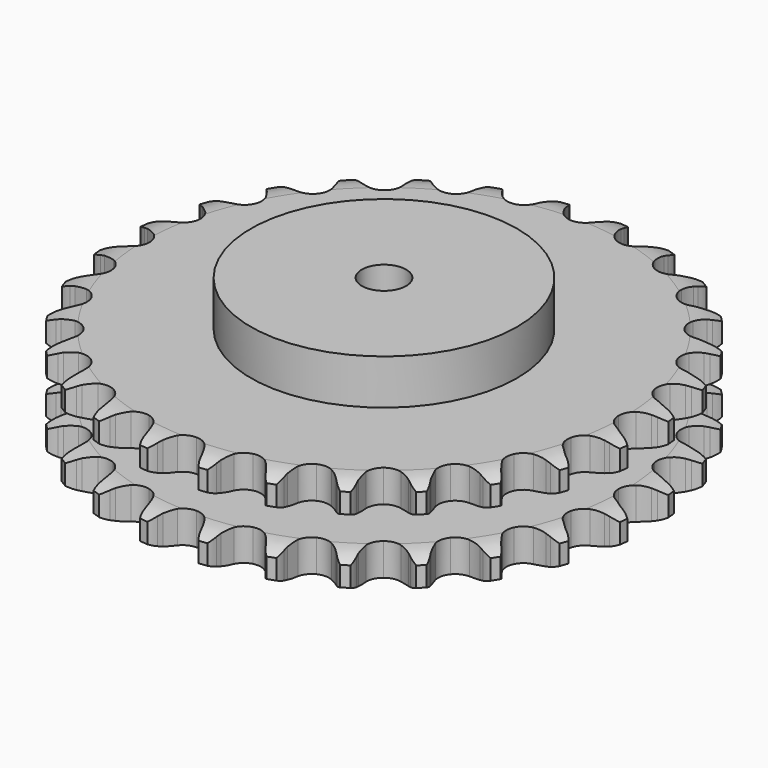
from build123d import *

# Parameters (mm, degrees)
PAD_DEPTH         = 54.6
SKETCH001_R       = 75
PAD001_DEPTH      = 80
SKETCH002_R       = 12.5
POCKET_DEPTH      = 0.001
POCKET_DEPTH_BACK = 80.001


with BuildPart() as part:
    # Sprocket → Pad (new body)
    with BuildSketch(Plane.XY):
        with BuildLine():
            ThreePointArc((-17.035209, 151.191666), (-14.028847, 148.159083), (-11.957801, 144.42471))
            Line((-11.957801, 144.42471), (-11.029574, 142.024501))
            ThreePointArc((-11.029574, 142.024501), (-9.556528, 138.885997), (-7.661021, 135.983045))
            ThreePointArc((-7.661021, 135.983045), (-4.277559, 133.179735), (0, 132.175318))
            ThreePointArc((0, 132.175318), (4.277559, 133.179735), (7.661021, 135.983045))
            ThreePointArc((7.661021, 135.983045), (9.556528, 138.885997), (11.029574, 142.024501))
            Line((11.029574, 142.024501), (11.957801, 144.42471))
            ThreePointArc((11.957801, 144.42471), (14.028847, 148.159083), (17.035209, 151.191666))
            ThreePointArc((17.035209, 151.191666), (19.291383, 147.566138), (20.479527, 143.464542))
            Line((20.479527, 143.464542), (20.850385, 140.917961))
            ThreePointArc((20.850385, 140.917961), (21.588116, 137.530362), (22.790131, 134.278403))
            ThreePointArc((22.790131, 134.278403), (25.464968, 130.792488), (29.411775, 128.861407))
            ThreePointArc((29.411775, 128.861407), (33.80559, 128.888795), (37.728018, 130.868928))
            Line((37.728018, 130.868928), (42.356464, 136.009339))
            ThreePointArc((42.356464, 136.009339), (43.048354, 137.09472), (43.795515, 138.14282))
            ThreePointArc((43.795515, 138.14282), (46.645612, 141.322713), (50.251412, 143.610284))
            ThreePointArc((50.251412, 143.610284), (51.644262, 139.57361), (51.889927, 135.310463))
            Line((51.889927, 135.310463), (51.684819, 132.745207))
            ThreePointArc((51.684819, 132.745207), (51.650242, 129.278381), (52.09849, 125.840482))
            ThreePointArc((52.09849, 125.840482), (53.930574, 121.846759), (57.348721, 119.085846))
            ThreePointArc((57.348721, 119.085846), (61.638469, 118.134832), (65.903174, 119.192497))
            Line((65.903174, 119.192497), (71.559424, 123.174101))
            ThreePointArc((71.559424, 123.174101), (72.475487, 124.078309), (73.43714, 124.933872))
            ThreePointArc((73.43714, 124.933872), (76.923371, 127.399833), (80.947799, 128.827684))
            ThreePointArc((80.947799, 128.827684), (81.407483, 124.582279), (80.698348, 120.371352))
            Line((80.698348, 120.371352), (79.92756, 117.916053))
            ThreePointArc((79.92756, 117.916053), (79.122408, 114.543842), (78.794414, 111.092394))
            ThreePointArc((78.794414, 111.092394), (79.691877, 106.791124), (82.409963, 103.338825))
            ThreePointArc((82.409963, 103.338825), (86.380537, 101.457096), (90.773669, 101.539257))
            Line((90.773669, 101.539257), (97.174096, 104.162399))
            ThreePointArc((97.174096, 104.162399), (98.268397, 104.840093), (99.396319, 105.460218))
            ThreePointArc((99.396319, 105.460218), (103.343872, 107.088592), (107.585125, 107.585125))
            ThreePointArc((107.585125, 107.585125), (107.088592, 103.343872), (105.460218, 99.396319))
            Line((105.460218, 99.396319), (104.162399, 97.174096))
            ThreePointArc((104.162399, 97.174096), (102.627047, 94.065597), (101.539257, 90.773669))
            ThreePointArc((101.539257, 90.773669), (101.457096, 86.380537), (103.338825, 82.409963))
            ThreePointArc((103.338825, 82.409963), (106.791124, 79.691877), (111.092394, 78.794414))
            Line((111.092394, 78.794414), (117.916053, 79.92756))
            ThreePointArc((117.916053, 79.92756), (119.133718, 80.344758), (120.371352, 80.698348))
            ThreePointArc((120.371352, 80.698348), (124.582279, 81.407483), (128.827684, 80.947799))
            ThreePointArc((128.827684, 80.947799), (127.399833, 76.923371), (124.933872, 73.43714))
            Line((124.933872, 73.43714), (123.174101, 71.559424))
            ThreePointArc((123.174101, 71.559424), (120.985537, 68.870509), (119.192497, 65.903174))
            ThreePointArc((119.192497, 65.903174), (118.134832, 61.638469), (119.085846, 57.348721))
            ThreePointArc((119.085846, 57.348721), (121.846759, 53.930574), (125.840482, 52.09849))
            Line((125.840482, 52.09849), (132.745207, 51.684819))
            ThreePointArc((132.745207, 51.684819), (134.025178, 51.820601), (135.310463, 51.889927))
            ThreePointArc((135.310463, 51.889927), (139.57361, 51.644262), (143.610284, 50.251412))
            ThreePointArc((143.610284, 50.251412), (141.322713, 46.645612), (138.14282, 43.795515))
            Line((138.14282, 43.795515), (136.009339, 42.356464))
            ThreePointArc((136.009339, 42.356464), (133.277307, 40.221967), (130.868928, 37.728018))
            ThreePointArc((130.868928, 37.728018), (128.888795, 33.80559), (128.861407, 29.411775))
            ThreePointArc((128.861407, 29.411775), (130.792488, 25.464968), (134.278403, 22.790131))
            Line((134.278403, 22.790131), (140.917961, 20.850385))
            ThreePointArc((140.917961, 20.850385), (142.196055, 20.697943), (143.464542, 20.479527))
            ThreePointArc((143.464542, 20.479527), (147.566138, 19.291383), (151.191666, 17.035209))
            ThreePointArc((151.191666, 17.035209), (148.159083, 14.028847), (144.42471, 11.957801))
            Line((144.42471, 11.957801), (142.024501, 11.029574))
            ThreePointArc((142.024501, 11.029574), (138.885997, 9.556528), (135.983045, 7.661021))
            ThreePointArc((135.983045, 7.661021), (133.179735, 4.277559), (132.175318, 0))
            ThreePointArc((132.175318, 0), (133.179735, -4.277559), (135.983045, -7.661021))
            Line((135.983045, -7.661021), (142.024501, -11.029574))
            ThreePointArc((142.024501, -11.029574), (143.236629, -11.462597), (144.42471, -11.957801))
            ThreePointArc((144.42471, -11.957801), (148.159083, -14.028847), (151.191666, -17.035209))
            ThreePointArc((151.191666, -17.035209), (147.566138, -19.291383), (143.464542, -20.479527))
            Line((143.464542, -20.479527), (140.917961, -20.850385))
            ThreePointArc((140.917961, -20.850385), (137.530362, -21.588116), (134.278403, -22.790131))
            ThreePointArc((134.278403, -22.790131), (130.792488, -25.464968), (128.861407, -29.411775))
            ThreePointArc((128.861407, -29.411775), (128.888795, -33.80559), (130.868928, -37.728018))
            Line((130.868928, -37.728018), (136.009339, -42.356464))
            ThreePointArc((136.009339, -42.356464), (137.09472, -43.048354), (138.14282, -43.795515))
            ThreePointArc((138.14282, -43.795515), (141.322713, -46.645612), (143.610284, -50.251412))
            ThreePointArc((143.610284, -50.251412), (139.57361, -51.644262), (135.310463, -51.889927))
            Line((135.310463, -51.889927), (132.745207, -51.684819))
            ThreePointArc((132.745207, -51.684819), (129.278381, -51.650242), (125.840482, -52.09849))
            ThreePointArc((125.840482, -52.09849), (121.846759, -53.930574), (119.085846, -57.348721))
            ThreePointArc((119.085846, -57.348721), (118.134832, -61.638469), (119.192497, -65.903174))
            Line((119.192497, -65.903174), (123.174101, -71.559424))
            ThreePointArc((123.174101, -71.559424), (124.078309, -72.475487), (124.933872, -73.43714))
            ThreePointArc((124.933872, -73.43714), (127.399833, -76.923371), (128.827684, -80.947799))
            ThreePointArc((128.827684, -80.947799), (124.582279, -81.407483), (120.371352, -80.698348))
            Line((120.371352, -80.698348), (117.916053, -79.92756))
            ThreePointArc((117.916053, -79.92756), (114.543842, -79.122408), (111.092394, -78.794414))
            ThreePointArc((111.092394, -78.794414), (106.791124, -79.691877), (103.338825, -82.409963))
            ThreePointArc((103.338825, -82.409963), (101.457096, -86.380537), (101.539257, -90.773669))
            Line((101.539257, -90.773669), (104.162399, -97.174096))
            ThreePointArc((104.162399, -97.174096), (104.840093, -98.268397), (105.460218, -99.396319))
            ThreePointArc((105.460218, -99.396319), (107.088592, -103.343872), (107.585125, -107.585125))
            ThreePointArc((107.585125, -107.585125), (103.343872, -107.088592), (99.396319, -105.460218))
            Line((99.396319, -105.460218), (97.174096, -104.162399))
            ThreePointArc((97.174096, -104.162399), (94.065597, -102.627047), (90.773669, -101.539257))
            ThreePointArc((90.773669, -101.539257), (86.380537, -101.457096), (82.409963, -103.338825))
            ThreePointArc((82.409963, -103.338825), (79.691877, -106.791124), (78.794414, -111.092394))
            Line((78.794414, -111.092394), (79.92756, -117.916053))
            ThreePointArc((79.92756, -117.916053), (80.344758, -119.133718), (80.698348, -120.371352))
            ThreePointArc((80.698348, -120.371352), (81.407483, -124.582279), (80.947799, -128.827684))
            ThreePointArc((80.947799, -128.827684), (76.923371, -127.399833), (73.43714, -124.933872))
            Line((73.43714, -124.933872), (71.559424, -123.174101))
            ThreePointArc((71.559424, -123.174101), (68.870509, -120.985537), (65.903174, -119.192497))
            ThreePointArc((65.903174, -119.192497), (61.638469, -118.134832), (57.348721, -119.085846))
            ThreePointArc((57.348721, -119.085846), (53.930574, -121.846759), (52.09849, -125.840482))
            Line((52.09849, -125.840482), (51.684819, -132.745207))
            ThreePointArc((51.684819, -132.745207), (51.820601, -134.025178), (51.889927, -135.310463))
            ThreePointArc((51.889927, -135.310463), (51.644262, -139.57361), (50.251412, -143.610284))
            ThreePointArc((50.251412, -143.610284), (46.645612, -141.322713), (43.795515, -138.14282))
            Line((43.795515, -138.14282), (42.356464, -136.009339))
            ThreePointArc((42.356464, -136.009339), (40.221967, -133.277307), (37.728018, -130.868928))
            ThreePointArc((37.728018, -130.868928), (33.80559, -128.888795), (29.411775, -128.861407))
            ThreePointArc((29.411775, -128.861407), (25.464968, -130.792488), (22.790131, -134.278403))
            Line((22.790131, -134.278403), (20.850385, -140.917961))
            ThreePointArc((20.850385, -140.917961), (20.697943, -142.196055), (20.479527, -143.464542))
            ThreePointArc((20.479527, -143.464542), (19.291383, -147.566138), (17.035209, -151.191666))
            ThreePointArc((17.035209, -151.191666), (14.028847, -148.159083), (11.957801, -144.42471))
            Line((11.957801, -144.42471), (11.029574, -142.024501))
            ThreePointArc((11.029574, -142.024501), (9.556528, -138.885997), (7.661021, -135.983045))
            ThreePointArc((7.661021, -135.983045), (4.277559, -133.179735), (0, -132.175318))
            ThreePointArc((0, -132.175318), (-4.277559, -133.179735), (-7.661021, -135.983045))
            Line((-7.661021, -135.983045), (-11.029574, -142.024501))
            ThreePointArc((-11.029574, -142.024501), (-11.462597, -143.236629), (-11.957801, -144.42471))
            ThreePointArc((-11.957801, -144.42471), (-14.028847, -148.159083), (-17.035209, -151.191666))
            ThreePointArc((-17.035209, -151.191666), (-19.291383, -147.566138), (-20.479527, -143.464542))
            Line((-20.479527, -143.464542), (-20.850385, -140.917961))
            ThreePointArc((-20.850385, -140.917961), (-21.588116, -137.530362), (-22.790131, -134.278403))
            ThreePointArc((-22.790131, -134.278403), (-25.464968, -130.792488), (-29.411775, -128.861407))
            ThreePointArc((-29.411775, -128.861407), (-33.80559, -128.888795), (-37.728018, -130.868928))
            Line((-37.728018, -130.868928), (-42.356464, -136.009339))
            ThreePointArc((-42.356464, -136.009339), (-43.048354, -137.09472), (-43.795515, -138.14282))
            ThreePointArc((-43.795515, -138.14282), (-46.645612, -141.322713), (-50.251412, -143.610284))
            ThreePointArc((-50.251412, -143.610284), (-51.644262, -139.57361), (-51.889927, -135.310463))
            Line((-51.889927, -135.310463), (-51.684819, -132.745207))
            ThreePointArc((-51.684819, -132.745207), (-51.650242, -129.278381), (-52.09849, -125.840482))
            ThreePointArc((-52.09849, -125.840482), (-53.930574, -121.846759), (-57.348721, -119.085846))
            ThreePointArc((-57.348721, -119.085846), (-61.638469, -118.134832), (-65.903174, -119.192497))
            Line((-65.903174, -119.192497), (-71.559424, -123.174101))
            ThreePointArc((-71.559424, -123.174101), (-72.475487, -124.078309), (-73.43714, -124.933872))
            ThreePointArc((-73.43714, -124.933872), (-76.923371, -127.399833), (-80.947799, -128.827684))
            ThreePointArc((-80.947799, -128.827684), (-81.407483, -124.582279), (-80.698348, -120.371352))
            Line((-80.698348, -120.371352), (-79.92756, -117.916053))
            ThreePointArc((-79.92756, -117.916053), (-79.122408, -114.543842), (-78.794414, -111.092394))
            ThreePointArc((-78.794414, -111.092394), (-79.691877, -106.791124), (-82.409963, -103.338825))
            ThreePointArc((-82.409963, -103.338825), (-86.380537, -101.457096), (-90.773669, -101.539257))
            Line((-90.773669, -101.539257), (-97.174096, -104.162399))
            ThreePointArc((-97.174096, -104.162399), (-98.268397, -104.840093), (-99.396319, -105.460218))
            ThreePointArc((-99.396319, -105.460218), (-103.343872, -107.088592), (-107.585125, -107.585125))
            ThreePointArc((-107.585125, -107.585125), (-107.088592, -103.343872), (-105.460218, -99.396319))
            Line((-105.460218, -99.396319), (-104.162399, -97.174096))
            ThreePointArc((-104.162399, -97.174096), (-102.627047, -94.065597), (-101.539257, -90.773669))
            ThreePointArc((-101.539257, -90.773669), (-101.457096, -86.380537), (-103.338825, -82.409963))
            ThreePointArc((-103.338825, -82.409963), (-106.791124, -79.691877), (-111.092394, -78.794414))
            Line((-111.092394, -78.794414), (-117.916053, -79.92756))
            ThreePointArc((-117.916053, -79.92756), (-119.133718, -80.344758), (-120.371352, -80.698348))
            ThreePointArc((-120.371352, -80.698348), (-124.582279, -81.407483), (-128.827684, -80.947799))
            ThreePointArc((-128.827684, -80.947799), (-127.399833, -76.923371), (-124.933872, -73.43714))
            Line((-124.933872, -73.43714), (-123.174101, -71.559424))
            ThreePointArc((-123.174101, -71.559424), (-120.985537, -68.870509), (-119.192497, -65.903174))
            ThreePointArc((-119.192497, -65.903174), (-118.134832, -61.638469), (-119.085846, -57.348721))
            ThreePointArc((-119.085846, -57.348721), (-121.846759, -53.930574), (-125.840482, -52.09849))
            Line((-125.840482, -52.09849), (-132.745207, -51.684819))
            ThreePointArc((-132.745207, -51.684819), (-134.025178, -51.820601), (-135.310463, -51.889927))
            ThreePointArc((-135.310463, -51.889927), (-139.57361, -51.644262), (-143.610284, -50.251412))
            ThreePointArc((-143.610284, -50.251412), (-141.322713, -46.645612), (-138.14282, -43.795515))
            Line((-138.14282, -43.795515), (-136.009339, -42.356464))
            ThreePointArc((-136.009339, -42.356464), (-133.277307, -40.221967), (-130.868928, -37.728018))
            ThreePointArc((-130.868928, -37.728018), (-128.888795, -33.80559), (-128.861407, -29.411775))
            ThreePointArc((-128.861407, -29.411775), (-130.792488, -25.464968), (-134.278403, -22.790131))
            Line((-134.278403, -22.790131), (-140.917961, -20.850385))
            ThreePointArc((-140.917961, -20.850385), (-142.196055, -20.697943), (-143.464542, -20.479527))
            ThreePointArc((-143.464542, -20.479527), (-147.566138, -19.291383), (-151.191666, -17.035209))
            ThreePointArc((-151.191666, -17.035209), (-148.159083, -14.028847), (-144.42471, -11.957801))
            Line((-144.42471, -11.957801), (-142.024501, -11.029574))
            ThreePointArc((-142.024501, -11.029574), (-138.885997, -9.556528), (-135.983045, -7.661021))
            ThreePointArc((-135.983045, -7.661021), (-133.179735, -4.277559), (-132.175318, 0))
            ThreePointArc((-132.175318, 0), (-133.179735, 4.277559), (-135.983045, 7.661021))
            Line((-135.983045, 7.661021), (-142.024501, 11.029574))
            ThreePointArc((-142.024501, 11.029574), (-143.236629, 11.462597), (-144.42471, 11.957801))
            ThreePointArc((-144.42471, 11.957801), (-148.159083, 14.028847), (-151.191666, 17.035209))
            ThreePointArc((-151.191666, 17.035209), (-147.566138, 19.291383), (-143.464542, 20.479527))
            Line((-143.464542, 20.479527), (-140.917961, 20.850385))
            ThreePointArc((-140.917961, 20.850385), (-137.530362, 21.588116), (-134.278403, 22.790131))
            ThreePointArc((-134.278403, 22.790131), (-130.792488, 25.464968), (-128.861407, 29.411775))
            ThreePointArc((-128.861407, 29.411775), (-128.888795, 33.80559), (-130.868928, 37.728018))
            Line((-130.868928, 37.728018), (-136.009339, 42.356464))
            ThreePointArc((-136.009339, 42.356464), (-137.09472, 43.048354), (-138.14282, 43.795515))
            ThreePointArc((-138.14282, 43.795515), (-141.322713, 46.645612), (-143.610284, 50.251412))
            ThreePointArc((-143.610284, 50.251412), (-139.57361, 51.644262), (-135.310463, 51.889927))
            Line((-135.310463, 51.889927), (-132.745207, 51.684819))
            ThreePointArc((-132.745207, 51.684819), (-129.278381, 51.650242), (-125.840482, 52.09849))
            ThreePointArc((-125.840482, 52.09849), (-121.846759, 53.930574), (-119.085846, 57.348721))
            ThreePointArc((-119.085846, 57.348721), (-118.134832, 61.638469), (-119.192497, 65.903174))
            Line((-119.192497, 65.903174), (-123.174101, 71.559424))
            ThreePointArc((-123.174101, 71.559424), (-124.078309, 72.475487), (-124.933872, 73.43714))
            ThreePointArc((-124.933872, 73.43714), (-127.399833, 76.923371), (-128.827684, 80.947799))
            ThreePointArc((-128.827684, 80.947799), (-124.582279, 81.407483), (-120.371352, 80.698348))
            Line((-120.371352, 80.698348), (-117.916053, 79.92756))
            ThreePointArc((-117.916053, 79.92756), (-114.543842, 79.122408), (-111.092394, 78.794414))
            ThreePointArc((-111.092394, 78.794414), (-106.791124, 79.691877), (-103.338825, 82.409963))
            ThreePointArc((-103.338825, 82.409963), (-101.457096, 86.380537), (-101.539257, 90.773669))
            Line((-101.539257, 90.773669), (-104.162399, 97.174096))
            ThreePointArc((-104.162399, 97.174096), (-104.840093, 98.268397), (-105.460218, 99.396319))
            ThreePointArc((-105.460218, 99.396319), (-107.088592, 103.343872), (-107.585125, 107.585125))
            ThreePointArc((-107.585125, 107.585125), (-103.343872, 107.088592), (-99.396319, 105.460218))
            Line((-99.396319, 105.460218), (-97.174096, 104.162399))
            ThreePointArc((-97.174096, 104.162399), (-94.065597, 102.627047), (-90.773669, 101.539257))
            ThreePointArc((-90.773669, 101.539257), (-86.380537, 101.457096), (-82.409963, 103.338825))
            ThreePointArc((-82.409963, 103.338825), (-79.691877, 106.791124), (-78.794414, 111.092394))
            Line((-78.794414, 111.092394), (-79.92756, 117.916053))
            ThreePointArc((-79.92756, 117.916053), (-80.344758, 119.133718), (-80.698348, 120.371352))
            ThreePointArc((-80.698348, 120.371352), (-81.407483, 124.582279), (-80.947799, 128.827684))
            ThreePointArc((-80.947799, 128.827684), (-76.923371, 127.399833), (-73.43714, 124.933872))
            Line((-73.43714, 124.933872), (-71.559424, 123.174101))
            ThreePointArc((-71.559424, 123.174101), (-68.870509, 120.985537), (-65.903174, 119.192497))
            ThreePointArc((-65.903174, 119.192497), (-61.638469, 118.134832), (-57.348721, 119.085846))
            ThreePointArc((-57.348721, 119.085846), (-53.930574, 121.846759), (-52.09849, 125.840482))
            Line((-52.09849, 125.840482), (-51.684819, 132.745207))
            ThreePointArc((-51.684819, 132.745207), (-51.820601, 134.025178), (-51.889927, 135.310463))
            ThreePointArc((-51.889927, 135.310463), (-51.644262, 139.57361), (-50.251412, 143.610284))
            ThreePointArc((-50.251412, 143.610284), (-46.645612, 141.322713), (-43.795515, 138.14282))
            Line((-43.795515, 138.14282), (-42.356464, 136.009339))
            ThreePointArc((-42.356464, 136.009339), (-40.221967, 133.277307), (-37.728018, 130.868928))
            ThreePointArc((-37.728018, 130.868928), (-33.80559, 128.888795), (-29.411775, 128.861407))
            ThreePointArc((-29.411775, 128.861407), (-25.464968, 130.792488), (-22.790131, 134.278403))
            Line((-22.790131, 134.278403), (-20.850385, 140.917961))
            ThreePointArc((-20.850385, 140.917961), (-20.697943, 142.196055), (-20.479527, 143.464542))
            ThreePointArc((-20.479527, 143.464542), (-19.291383, 147.566138), (-17.035209, 151.191666))
        make_face()
    extrude(amount=PAD_DEPTH)

    # Sketch → Groove (revolve, cut)
    with BuildSketch(Plane.XZ):
        with BuildLine():
            ThreePointArc((134.798368, 0), (142.281683, 0.887302), (149.35, 3.5))
            Line((149.35, 3.5), (149.35, 14.7))
            ThreePointArc((149.35, 14.7), (142.281683, 17.312698), (134.798368, 18.2))
            Line((75, 18.2), (134.798368, 18.2))
            Line((75, 36.4), (75, 18.2))
            Line((134.798368, 36.4), (75, 36.4))
            ThreePointArc((134.798368, 36.4), (142.281683, 37.287302), (149.35, 39.9))
            Line((149.35, 39.9), (149.35, 51.1))
            ThreePointArc((149.35, 51.1), (142.281683, 53.712698), (134.798368, 54.6))
            Line((134.798368, 54.6), (159.35, 54.6))
            Line((159.35, 54.6), (159.35, 0))
            Line((134.798368, 0), (159.35, 0))
        make_face()
    revolve(axis=Axis((0, 0, 0), (0, 0, 1)), mode=Mode.SUBTRACT)

    # Sketch001 → Pad001 (join)
    with BuildSketch(Plane.XY):
        Circle(SKETCH001_R)
    extrude(amount=PAD001_DEPTH)

    # Sketch002 → Pocket (cut, two sides)
    with BuildSketch(Plane.XY) as pocket_sk:
        Circle(SKETCH002_R)
    extrude(amount=-POCKET_DEPTH, mode=Mode.SUBTRACT)
    extrude(pocket_sk.sketch, amount=POCKET_DEPTH_BACK, mode=Mode.SUBTRACT)


solid = part.part
